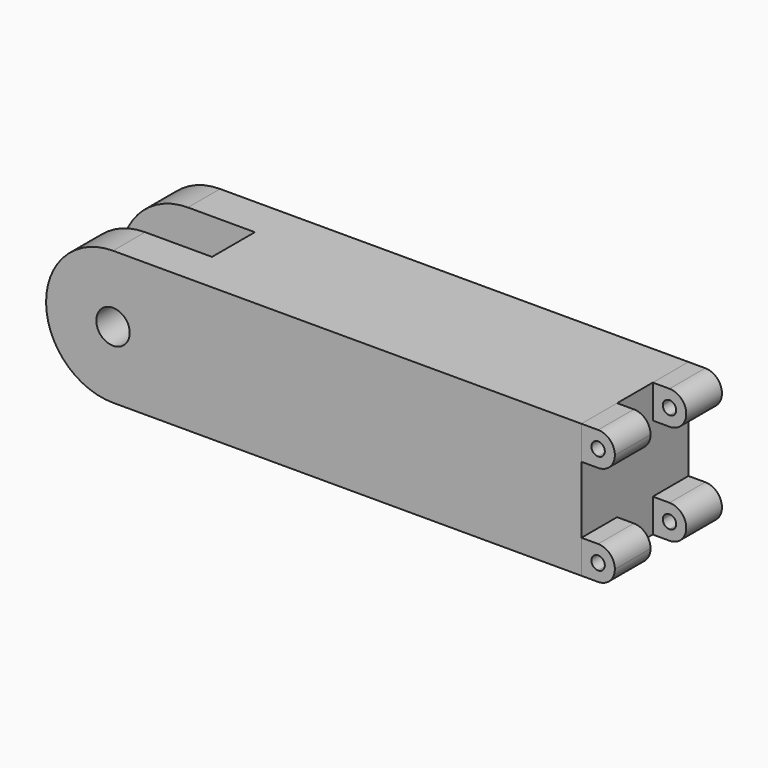
from build123d import *

# Parameters (mm, degrees)
F0_W     = 76.2
F0_H     = 25.4
F1_DEPTH = 25.4
F2_W     = 7.62
F2_H     = 25.4
F3_DEPTH = 25.4
F4_R     = 3.175
F5_DEPTH = 25.4
F7_DEPTH = 8.4666666667
F9_DEPTH = 8.4666666667


with BuildPart() as f1:
    # F0 (on Front) → F1 (new body)
    with BuildSketch(Plane.XZ):
        Rectangle(F0_W, F0_H)
    extrude(amount=F1_DEPTH)

    # F2 (on face) → F3 (join)
    with BuildSketch(Plane(origin=(-38.1, 0, 0), x_dir=(0, -1, 0), z_dir=(-1, 0, 0))):
        with Locations((3.81, 0)):
            Rectangle(F2_W, F2_H)
        with Locations((21.59, 0)):
            Rectangle(F2_W, F2_H)
    extrude(amount=F3_DEPTH)

    # F4 (on face) → F5 (cut)
    with BuildSketch(Plane.XZ.offset(25.4)):
        with BuildLine():
            Line((-50.8, 12.7), (-63.5, 12.7))
            Line((-63.5, 12.7), (-63.5, 0))
            ThreePointArc((-63.5, 0), (-59.7802561211, 8.9802561211), (-50.8, 12.7))
        make_face()
        with BuildLine():
            ThreePointArc((-50.8, -12.7), (-59.7802561211, -8.9802561211), (-63.5, 0))
            Line((-63.5, 0), (-63.5, -12.7))
            Line((-63.5, -12.7), (-50.8, -12.7))
        make_face()
        with Locations((-50.8, 0)):
            Circle(F4_R)
    extrude(amount=-F5_DEPTH, mode=Mode.SUBTRACT)


with BuildPart() as f7:
    # F6 (on face) → F7 (new body)
    with BuildSketch(Plane.XZ.offset(25.4)):
        with BuildLine():
            Line((38.1, -9.525), (38.1, -12.7))
            Line((38.1, -12.7), (41.275, -12.7))
            ThreePointArc((41.275, -12.7), (39.0299359697, -11.7700640303), (38.1, -9.525))
        make_face()
        with BuildLine():
            ThreePointArc((38.1, -9.525), (39.0299359697, -11.7700640303), (41.275, -12.7))
            Line((41.275, -12.7), (41.275, -10.795))
            ThreePointArc((41.275, -10.795), (40.005, -9.525), (41.275, -8.255))
            Line((41.275, -8.255), (41.275, -6.35))
            ThreePointArc((41.275, -6.35), (39.0299359697, -7.2799359697), (38.1, -9.525))
        make_face()
        with BuildLine():
            Line((41.275, -10.795), (41.275, -12.7))
            ThreePointArc((41.275, -12.7), (43.5200640303, -11.7700640303), (44.45, -9.525))
            ThreePointArc((44.45, -9.525), (43.5200640303, -7.2799359697), (41.275, -6.35))
            Line((41.275, -6.35), (41.275, -8.255))
            ThreePointArc((41.275, -8.255), (42.1730256121, -8.6269743879), (42.545, -9.525))
            ThreePointArc((42.545, -9.525), (42.1730256121, -10.4230256121), (41.275, -10.795))
        make_face()
        with BuildLine():
            Line((38.1, -6.35), (38.1, -9.525))
            ThreePointArc((38.1, -9.525), (39.0299359697, -7.2799359697), (41.275, -6.35))
            Line((41.275, -6.35), (38.1, -6.35))
        make_face()
    extrude(amount=-F7_DEPTH)


with BuildPart() as f7b:
    # F6 (on face) → F7, piece 2 (new body)
    with BuildSketch(Plane.XZ.offset(25.4)):
        with BuildLine():
            Line((41.275, 12.7), (38.1, 12.7))
            Line((38.1, 12.7), (38.1, 9.525))
            ThreePointArc((38.1, 9.525), (39.0299359697, 11.7700640303), (41.275, 12.7))
        make_face()
        with BuildLine():
            ThreePointArc((44.45, 9.525), (43.5200640303, 11.7700640303), (41.275, 12.7))
            Line((41.275, 12.7), (41.275, 10.795))
            ThreePointArc((41.275, 10.795), (42.1730256121, 10.4230256121), (42.545, 9.525))
            ThreePointArc((42.545, 9.525), (42.1730256121, 8.6269743879), (41.275, 8.255))
            Line((41.275, 8.255), (41.275, 6.35))
            ThreePointArc((41.275, 6.35), (43.5200640303, 7.2799359697), (44.45, 9.525))
        make_face()
        with BuildLine():
            Line((41.275, 10.795), (41.275, 12.7))
            ThreePointArc((41.275, 12.7), (39.0299359697, 11.7700640303), (38.1, 9.525))
            ThreePointArc((38.1, 9.525), (39.0299359697, 7.2799359697), (41.275, 6.35))
            Line((41.275, 6.35), (41.275, 8.255))
            ThreePointArc((41.275, 8.255), (40.005, 9.525), (41.275, 10.795))
        make_face()
        with BuildLine():
            ThreePointArc((41.275, 6.35), (39.0299359697, 7.2799359697), (38.1, 9.525))
            Line((38.1, 9.525), (38.1, 6.35))
            Line((38.1, 6.35), (41.275, 6.35))
        make_face()
    extrude(amount=-F7_DEPTH)


with BuildPart() as f9:
    # F8 (on face) → F9 (new body)
    with BuildSketch(Plane(origin=(0, 0, 0), x_dir=(-1, 0, 0), z_dir=(0, 1, 0))):
        with BuildLine():
            Line((-41.275, -12.7), (-38.1, -12.7))
            Line((-38.1, -12.7), (-38.1, -9.525))
            ThreePointArc((-38.1, -9.525), (-39.0299359697, -11.7700640303), (-41.275, -12.7))
        make_face()
        with BuildLine():
            ThreePointArc((-41.275, -6.35), (-44.45, -9.525), (-41.275, -12.7))
            Line((-41.275, -12.7), (-41.275, -10.795))
            ThreePointArc((-41.275, -10.795), (-42.545, -9.525), (-41.275, -8.255))
            Line((-41.275, -8.255), (-41.275, -6.35))
        make_face()
        with BuildLine():
            Line((-41.275, -10.795), (-41.275, -12.7))
            ThreePointArc((-41.275, -12.7), (-39.0299359697, -11.7700640303), (-38.1, -9.525))
            ThreePointArc((-38.1, -9.525), (-39.0299359697, -7.2799359697), (-41.275, -6.35))
            Line((-41.275, -6.35), (-41.275, -8.255))
            ThreePointArc((-41.275, -8.255), (-40.3769743879, -8.6269743879), (-40.005, -9.525))
            ThreePointArc((-40.005, -9.525), (-40.3769743879, -10.4230256121), (-41.275, -10.795))
        make_face()
        with BuildLine():
            ThreePointArc((-41.275, -6.35), (-39.0299359697, -7.2799359697), (-38.1, -9.525))
            Line((-38.1, -9.525), (-38.1, -6.35))
            Line((-38.1, -6.35), (-41.275, -6.35))
        make_face()
    extrude(amount=-F9_DEPTH)


with BuildPart() as f9b:
    # F8 (on face) → F9, piece 2 (new body)
    with BuildSketch(Plane(origin=(0, 0, 0), x_dir=(-1, 0, 0), z_dir=(0, 1, 0))):
        with BuildLine():
            Line((-38.1, 9.525), (-38.1, 12.7))
            Line((-38.1, 12.7), (-41.275, 12.7))
            ThreePointArc((-41.275, 12.7), (-39.0299359697, 11.7700640303), (-38.1, 9.525))
        make_face()
        with BuildLine():
            ThreePointArc((-38.1, 9.525), (-39.0299359697, 11.7700640303), (-41.275, 12.7))
            Line((-41.275, 12.7), (-41.275, 10.795))
            ThreePointArc((-41.275, 10.795), (-40.3769743879, 10.4230256121), (-40.005, 9.525))
            ThreePointArc((-40.005, 9.525), (-40.3769743879, 8.6269743879), (-41.275, 8.255))
            Line((-41.275, 8.255), (-41.275, 6.35))
            ThreePointArc((-41.275, 6.35), (-39.0299359697, 7.2799359697), (-38.1, 9.525))
        make_face()
        with BuildLine():
            Line((-41.275, 10.795), (-41.275, 12.7))
            ThreePointArc((-41.275, 12.7), (-44.45, 9.525), (-41.275, 6.35))
            Line((-41.275, 6.35), (-41.275, 8.255))
            ThreePointArc((-41.275, 8.255), (-42.545, 9.525), (-41.275, 10.795))
        make_face()
        with BuildLine():
            Line((-38.1, 6.35), (-38.1, 9.525))
            ThreePointArc((-38.1, 9.525), (-39.0299359697, 7.2799359697), (-41.275, 6.35))
            Line((-41.275, 6.35), (-38.1, 6.35))
        make_face()
    extrude(amount=-F9_DEPTH)


solid = Compound([f1.part, f7.part, f7b.part, f9.part, f9b.part])
